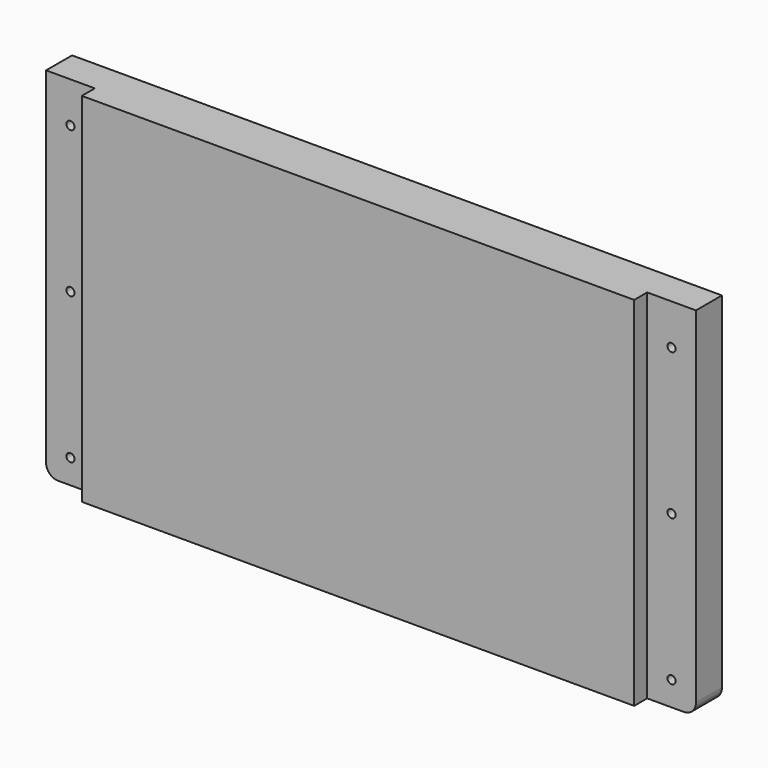
from build123d import *

# Parameters (mm, degrees)
F0_W     = 215.9
F0_H     = 139.7
F1_DEPTH = 19.05
F0_R     = 1.5875
F2_DEPTH = 12.7


with BuildPart() as f1:
    # F0 (on Front) → F1 (new body)
    with BuildSketch(Plane.XZ):
        with Locations((154.939999, 94.996)):
            Rectangle(F0_W, F0_H)
    extrude(amount=F1_DEPTH)

    # F0 (on Front) → F2 (join)
    with BuildSketch(Plane.XZ):
        with BuildLine():
            Line((46.989999, 164.846), (27.939999, 164.846))
            Line((27.939999, 164.846), (27.939999, 29.832977))
            ThreePointArc((27.939999, 29.832977), (29.312783, 26.518784), (32.626976, 25.146))
            Line((32.626976, 25.146), (46.989999, 25.146))
            Line((46.989999, 25.146), (46.989999, 164.846))
        make_face()
        with Locations((37.464999, 34.671001)):
            Circle(F0_R, mode=Mode.SUBTRACT)
        with Locations((37.464999, 91.821)):
            Circle(F0_R, mode=Mode.SUBTRACT)
        with Locations((37.464999, 148.971003)):
            Circle(F0_R, mode=Mode.SUBTRACT)
        with BuildLine():
            Line((281.939999, 164.846), (262.889999, 164.846))
            Line((262.889999, 164.846), (262.889999, 25.146))
            Line((262.889999, 25.146), (277.253023, 25.146))
            ThreePointArc((277.253023, 25.146), (280.567216, 26.518784), (281.939999, 29.832977))
            Line((281.939999, 29.832977), (281.939999, 164.846))
        make_face()
        with Locations((272.414999, 34.671001)):
            Circle(F0_R, mode=Mode.SUBTRACT)
        with Locations((272.414999, 91.821)):
            Circle(F0_R, mode=Mode.SUBTRACT)
        with Locations((272.414999, 148.971003)):
            Circle(F0_R, mode=Mode.SUBTRACT)
    extrude(amount=F2_DEPTH)


solid = f1.part
